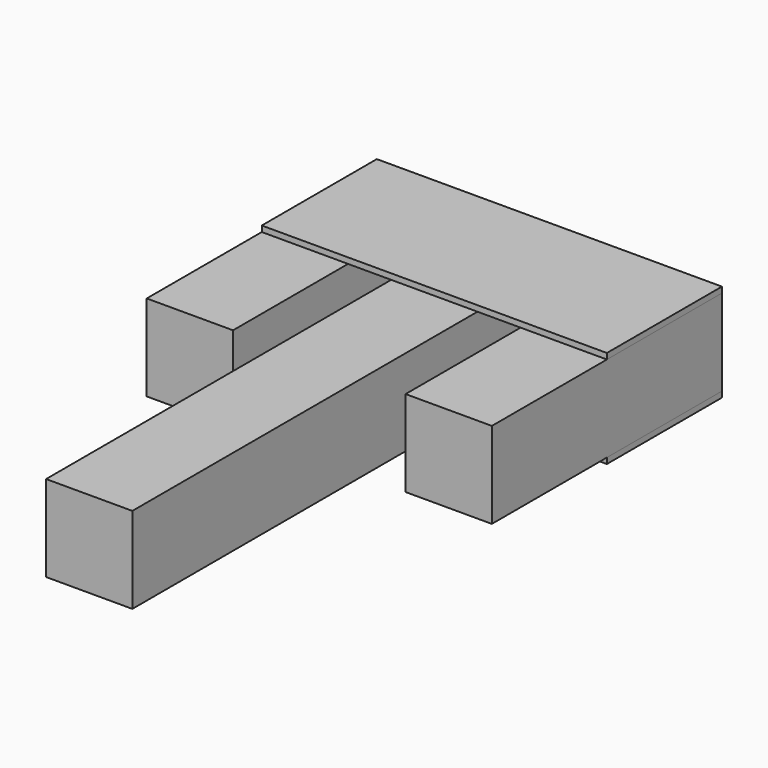
from build123d import *

# Parameters (mm, degrees)
F0_W     = 30
F0_H     = 30
F1_DEPTH = 50
F2_DEPTH = 200
F3_DEPTH = 100
F4_DEPTH = 25


with BuildPart() as f1:
    # F0 (on Front) → F1 (new body)
    with BuildSketch(Plane.XZ):
        Polygon((-59.57008, 6.396498), (-59.57008, 4.396498), (-29.57008, 4.396498), (-14.57008, 4.396498), (15.42992, 4.396498), (30.42992, 4.396498), (60.42992, 4.396498), (60.42992, 6.396498), align=None)
        with Locations((-44.57008, -10.603502)):
            Rectangle(F0_W, F0_H)
        Polygon((-29.57008, -25.603502), (-59.57008, -25.603502), (-59.57008, -27.603502), (60.42992, -27.603502), (60.42992, -25.603502), (30.42992, -25.603502), (15.42992, -25.603502), (-14.57008, -25.603502), align=None)
        with Locations((45.42992, -10.603502)):
            Rectangle(F0_W, F0_H)
        Polygon((50.078775, -15.807562), (41.331842, -15.392709), (37.317649, -7.610217), (42.050388, -0.242577), (50.797321, -0.65743), (54.811515, -8.439923), align=None, mode=Mode.SUBTRACT)
    extrude(amount=F1_DEPTH)

    # F0 (on Front) → F2 (join)
    with BuildSketch(Plane.XZ):
        with Locations((0.42992, -10.603502)):
            Rectangle(F0_W, F0_H)
    extrude(amount=F2_DEPTH)


with BuildPart() as f3:
    # F0 (on Front) → F3 (new body)
    with BuildSketch(Plane.XZ):
        with Locations((45.42992, -10.603502)):
            Rectangle(F0_W, F0_H)
        Polygon((50.078775, -15.807562), (41.331842, -15.392709), (37.317649, -7.610217), (42.050388, -0.242577), (50.797321, -0.65743), (54.811515, -8.439923), align=None, mode=Mode.SUBTRACT)
        Polygon((37.317649, -7.610217), (41.331842, -15.392709), (50.078775, -15.807562), (54.811515, -8.439923), (50.797321, -0.65743), (42.050388, -0.242577), align=None)
        with Locations((-44.57008, -10.603502)):
            Rectangle(F0_W, F0_H)
    extrude(amount=F3_DEPTH)

    # F0 (on Front) → F4 (cut)
    with BuildSketch(Plane.XZ):
        Polygon((37.317649, -7.610217), (41.331842, -15.392709), (50.078775, -15.807562), (54.811515, -8.439923), (50.797321, -0.65743), (42.050388, -0.242577), align=None)
    extrude(amount=F4_DEPTH, mode=Mode.SUBTRACT)


solid = Compound([f1.part, f3.part])
